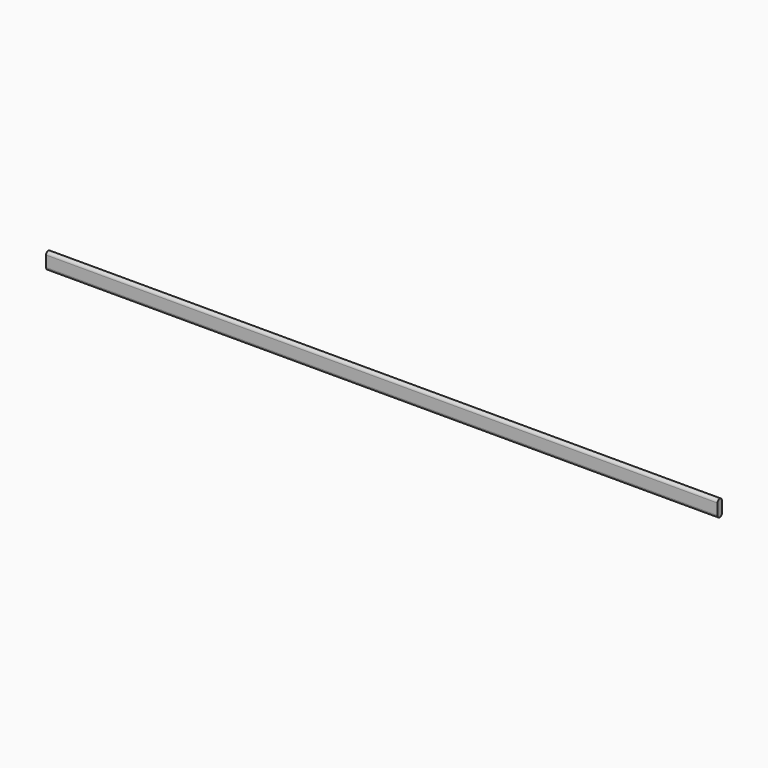
from build123d import *

# Parameters (mm, degrees)
F1_DEPTH = 61


with BuildPart() as f1:
    # F0 (on Right) → F1 (new body, symmetric)
    with BuildSketch(Plane.YZ):
        with BuildLine():
            ThreePointArc((-0.5, -1), (0, -1.5), (0.5, -1))
            Line((0.5, -1), (0.5, 1))
            ThreePointArc((0.5, 1), (0, 1.5), (-0.5, 1))
            Line((-0.5, 1), (-0.5, -1))
        make_face()
    extrude(amount=F1_DEPTH, both=True)


solid = f1.part
